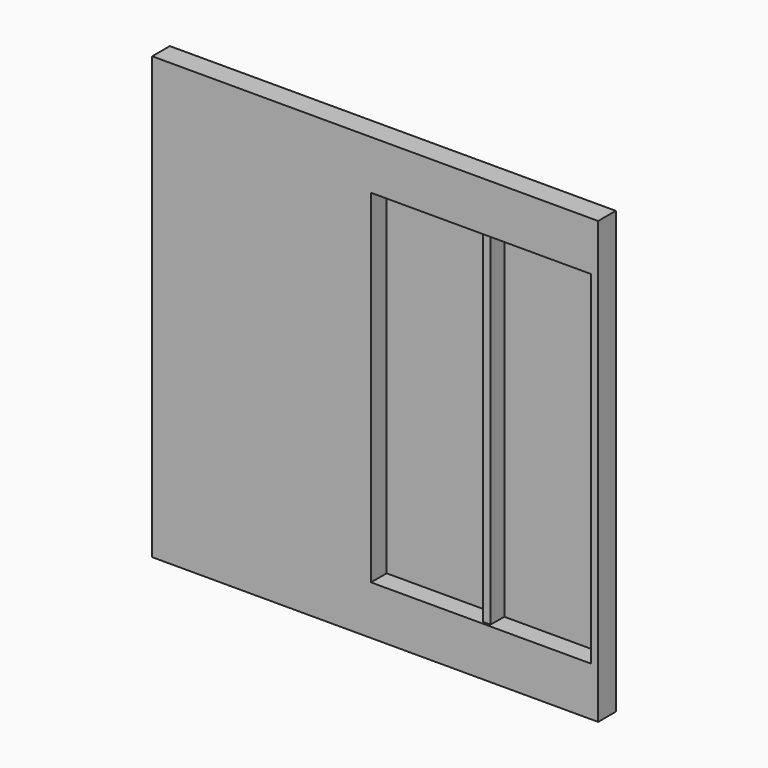
from build123d import *

# Parameters (mm, degrees)
F0_W     = 2311.4
F0_H     = 2286
F1_DEPTH = 114.3
F2_W     = 1139.421445
F2_H     = 1778
F3_DEPTH = 101.6
F4_W     = 38.1
F4_H     = 1778
F5_DEPTH = 88.9


with BuildPart() as f1:
    # F0 (on Front) → F1 (new body)
    with BuildSketch(Plane.XZ):
        Rectangle(F0_W, F0_H)
    extrude(amount=F1_DEPTH)

    # F2 (on face) → F3 (cut)
    with BuildSketch(Plane.XZ.offset(114.3)):
        with Locations((547.889277, 0)):
            Rectangle(F2_W, F2_H)
    extrude(amount=-F3_DEPTH, mode=Mode.SUBTRACT)

    # F4 (on face) → F5 (join)
    with BuildSketch(Plane.XZ.offset(12.7)):
        with Locations((568.728555, 0)):
            Rectangle(F4_W, F4_H)
    extrude(amount=F5_DEPTH)


solid = f1.part
